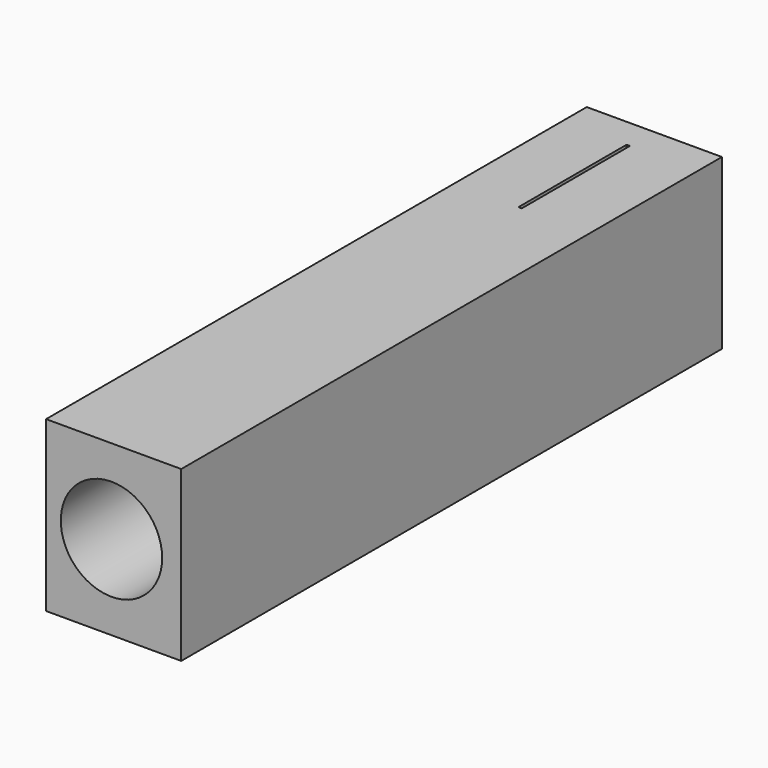
from build123d import *

# Parameters (mm, degrees)
F0_W     = 10.16
F0_H     = 12.7
F1_DEPTH = 50.8
F2_R     = 3.81
F3_DEPTH = 76.2
F4_W     = 0.254
F4_H     = 10.16
F5_DEPTH = 2.2606


with BuildPart() as f1:
    # F0 (on Front) → F1 (new body)
    with BuildSketch(Plane.XZ):
        with Locations((-26.745969, 16.98054)):
            Rectangle(F0_W, F0_H)
    extrude(amount=F1_DEPTH)

    # F2 (on face) → F3 (cut)
    with BuildSketch(Plane.XZ.offset(50.8)):
        with Locations((-26.909839, 16.98054)):
            Circle(F2_R)
    extrude(amount=-F3_DEPTH, mode=Mode.SUBTRACT)

    # F4 (on face) → F5 (cut)
    with BuildSketch(Plane.XY.offset(23.33054)):
        with Locations((-26.883121, -7.359638)):
            Rectangle(F4_W, F4_H)
    extrude(amount=-F5_DEPTH, mode=Mode.SUBTRACT)


solid = f1.part
